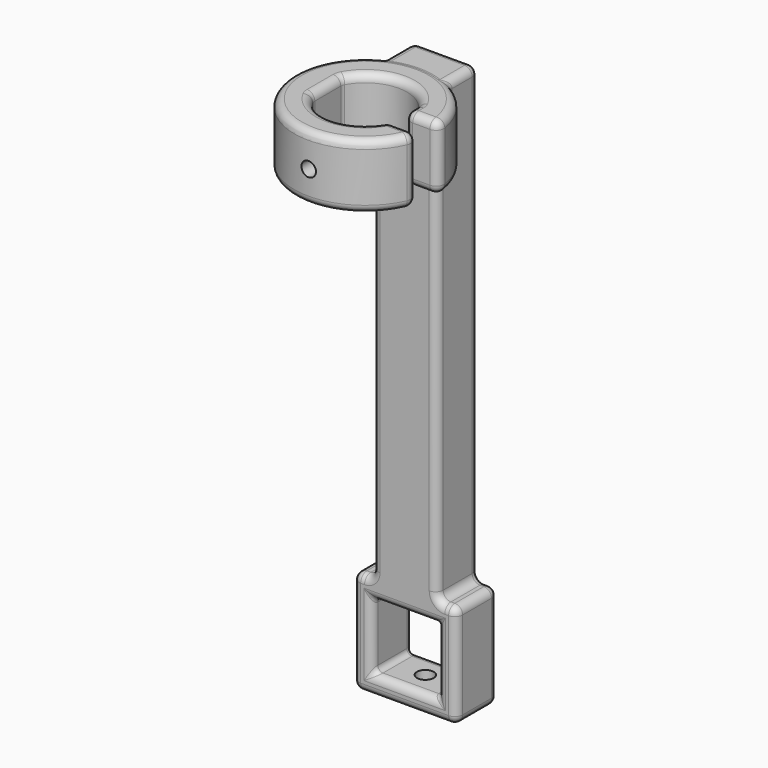
from build123d import *

# Parameters (mm, degrees)
CYLINDER039_R     = 2.8
CYLINDER039_DEPTH = 15
CYLINDER040_R     = 3.25
CYLINDER040_DEPTH = 15
SKETCH002_W       = 25.5
SKETCH002_H       = 25.5
EXTRUDE002_DEPTH  = 20
FILLET_R          = 3
FILLET003_R       = 2
BOX002_W          = 13
BOX002_H          = 8
BOX002_DEPTH      = 30
SKETCH006_R       = 27.5
EXTRUDE007_DEPTH  = 25
FILLET002_R       = 3
FILLET004_R       = 3


with BuildPart() as m4heatsetcut:
    # Cylinder039 → Cylinder039 (new body)
    with BuildSketch(Plane(origin=(0, -53.25, 41), x_dir=(1, 0, 0), z_dir=(0, -1, 0))):
        Circle(CYLINDER039_R)
    extrude(amount=CYLINDER039_DEPTH)


with BuildPart() as obj1:
    # Cylinder040 → Cylinder040 (new body)
    with BuildSketch(Plane(origin=(0, -10, -162), x_dir=(1, 0, 0), z_dir=(0, 0, 1))):
        Circle(CYLINDER040_R)
    extrude(amount=CYLINDER040_DEPTH)

    # Fusion014: union m4HeatSetCut
    add(m4heatsetcut.part)


with BuildPart() as fillet003:
    # Sketch002 → Extrude002 (new body)
    with BuildSketch(Plane.XZ):
        Polygon((-20, -121.4), (-20, -161.4), (20, -161.4), (20, -121.4), (12.5, -121.4), (12.5, 53.6), (-12.5, 53.6), (-12.5, -121.4), align=None)
        with Locations((0, -141.4)):
            Rectangle(SKETCH002_W, SKETCH002_H, mode=Mode.SUBTRACT)
    extrude(amount=EXTRUDE002_DEPTH)

    # Fillet
    fillet_edges = [fillet003.edges().sort_by_distance(p)[0] for p in [
        (-20, -10, -121.4),
        (-20, -10, -161.4),
        (-20, 0, -141.4),
        (-20, -20, -141.4),
        (20, -10, -161.4),
        (0, 0, -161.4),
        (0, -20, -161.4),
        (20, -10, -121.4),
        (20, 0, -141.4),
        (20, -20, -141.4),
        (12.5, -10, -121.4),
        (16.25, 0, -121.4),
        (16.25, -20, -121.4),
        (12.5, -10, 53.6),
        (12.5, 0, -33.9),
        (12.5, -20, -33.9),
        (-12.5, -10, 53.6),
        (0, 0, 53.6),
        (0, -20, 53.6),
        (-12.5, -10, -121.4),
        (-12.5, 0, -33.9),
        (-12.5, -20, -33.9),
        (-16.25, 0, -121.4),
        (-16.25, -20, -121.4),
        (0, 0, -128.65),
        (0, -20, -128.65),
        (12.75, 0, -141.4),
        (12.75, -20, -141.4),
        (0, 0, -154.15),
        (0, -20, -154.15),
        (-12.75, 0, -141.4),
        (-12.75, -20, -141.4),
    ]]
    fillet(fillet_edges, radius=FILLET_R)

    # Fillet003
    fillet003_edges = [fillet003.edges().sort_by_distance(p)[0] for p in [
        (-12.75, -10, -128.65),
        (12.75, -10, -128.65),
        (-12.75, -10, -154.15),
        (12.75, -10, -154.15),
    ]]
    fillet(fillet003_edges, radius=FILLET003_R)


with BuildPart() as cube002:
    # Box002 → Box002 (new body)
    with BuildSketch(Plane(origin=(14.5, -171, 25), x_dir=(1, 0, 0), z_dir=(0, 0, 1))):
        with Locations((6.5, 4)):
            Rectangle(BOX002_W, BOX002_H)
    extrude(amount=BOX002_DEPTH)


with BuildPart() as cut005:
    # Sketch006 → Extrude007 (new body)
    with BuildSketch(Plane.XY.offset(23.8)):
        with Locations((0, -36)):
            Circle(SKETCH006_R)
        with BuildLine():
            Line((-14.526377, -29), (-14.526377, -43))
            ThreePointArc((-14.526377, -43), (0, -52.125), (14.526377, -43))
            Line((14.526377, -29), (14.526377, -43))
            ThreePointArc((14.526377, -29), (0, -19.875), (-14.526377, -29))
        make_face(mode=Mode.SUBTRACT)
    extrude(amount=EXTRUDE007_DEPTH)


with BuildPart() as cut005_1:
    # Extrude007 placement: moved
    add(cut005.part.moved(Location((0, -128, 5))))

    # Cut004: cut Cube002
    add(cube002.part, mode=Mode.SUBTRACT)

    # Fillet002
    fillet002_edges = [cut005_1.edges().sort_by_distance(p)[0] for p in [
        (-27.332271, -160.967348, 28.8),
        (26.594172, -171, 41.3),
        (-27.332271, -160.967348, 53.8),
        (27.481812, -163, 41.3),
        (21.004095, -163, 28.8),
        (14.526377, -160, 28.8),
        (0, -147.875, 28.8),
        (-14.526377, -164, 28.8),
        (0, -180.125, 28.8),
        (20.560275, -171, 28.8),
        (20.560275, -171, 53.8),
        (14.526377, -171, 41.3),
        (21.004095, -163, 53.8),
        (14.526377, -160, 53.8),
        (0, -147.875, 53.8),
        (-14.526377, -164, 53.8),
        (0, -180.125, 53.8),
        (14.526377, -163, 41.3),
        (14.526377, -157, 41.3),
        (-14.526377, -157, 41.3),
        (-14.526377, -171, 41.3),
    ]]
    fillet(fillet002_edges, radius=FILLET002_R)


with BuildPart() as cut005_2:
    # Fillet002 placement: moved
    add(cut005_1.part.moved(Location((0, 125, 0))))

    # Fusion015: union Fillet003
    add(fillet003.part)

    # Fillet004
    fillet004_edges = [cut005_2.edges().sort_by_distance(p)[0] for p in [
        (12.5, -14.505103, 41.2),
        (-12.5, -14.505103, 41.2),
    ]]
    fillet(fillet004_edges, radius=FILLET004_R)

    # Cut005: cut obj1
    add(obj1.part, mode=Mode.SUBTRACT)


solid = cut005_2.part
